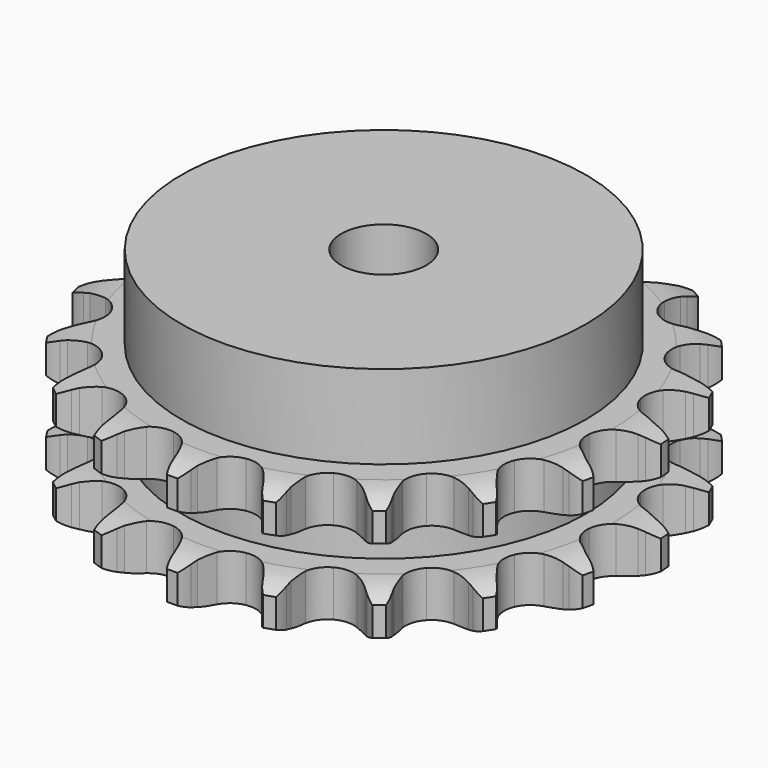
from build123d import *

# Parameters (mm, degrees)
PAD_DEPTH         = 30.3
SKETCH001_R       = 47.5
PAD001_DEPTH      = 50
SKETCH002_R       = 10
POCKET_DEPTH      = 0.001
POCKET_DEPTH_BACK = 50.001


with BuildPart() as part:
    # Sprocket → Pad (new body)
    with BuildSketch(Plane.XY):
        with BuildLine():
            ThreePointArc((-10.503966, 62.946816), (-8.74389, 61.167961), (-7.481259, 59.007416))
            Line((-7.481259, 59.007416), (-6.902532, 57.650953))
            ThreePointArc((-6.902532, 57.650953), (-5.967626, 55.805634), (-4.799073, 54.098669))
            ThreePointArc((-4.799073, 54.098669), (-2.667939, 52.380191), (0, 51.766185))
            ThreePointArc((0, 51.766185), (2.667939, 52.380191), (4.799073, 54.098669))
            ThreePointArc((4.799073, 54.098669), (5.967626, 55.805634), (6.902532, 57.650953))
            Line((6.902532, 57.650953), (7.481259, 59.007416))
            ThreePointArc((7.481259, 59.007416), (8.74389, 61.167961), (10.503966, 62.946816))
            ThreePointArc((10.503966, 62.946816), (11.591083, 60.692849), (12.083773, 58.239392))
            Line((12.083773, 58.239392), (12.1907, 56.768514))
            ThreePointArc((12.1907, 56.768514), (12.475776, 54.719616), (13.026763, 52.72571))
            ThreePointArc((13.026763, 52.72571), (14.484438, 50.408366), (16.808453, 48.96135))
            ThreePointArc((16.808453, 48.96135), (19.531203, 48.67581), (22.104855, 49.609197))
            Line((22.104855, 49.609197), (25.247767, 52.286017))
            ThreePointArc((25.247767, 52.286017), (25.728857, 52.845105), (26.23558, 53.38107))
            ThreePointArc((26.23558, 53.38107), (28.131326, 55.014576), (30.37363, 56.125552))
            ThreePointArc((30.37363, 56.125552), (30.669982, 53.640724), (30.33934, 51.160227))
            Line((30.33934, 51.160227), (29.962881, 49.734325))
            ThreePointArc((29.962881, 49.734325), (29.567234, 47.703879), (29.440947, 45.639103))
            ThreePointArc((29.440947, 45.639103), (30.067201, 42.974012), (31.795449, 40.850793))
            ThreePointArc((31.795449, 40.850793), (34.277958, 39.696649), (37.015233, 39.743799))
            Line((37.015233, 39.743799), (40.857016, 41.25508))
            ThreePointArc((40.857016, 41.25508), (41.493574, 41.627665), (42.14687, 41.970058))
            ThreePointArc((42.14687, 41.970058), (44.470297, 42.899508), (46.95184, 43.222213))
            ThreePointArc((46.95184, 43.222213), (46.425312, 40.775795), (45.307169, 38.537057))
            Line((45.307169, 38.537057), (44.488118, 37.310651))
            ThreePointArc((44.488118, 37.310651), (43.454624, 35.518686), (42.664748, 33.60679))
            ThreePointArc((42.664748, 33.60679), (42.391716, 30.882758), (43.336914, 28.313419))
            ThreePointArc((43.336914, 28.313419), (45.310164, 26.41574), (47.914436, 25.571544))
            Line((47.914436, 25.571544), (52.038772, 25.753515))
            ThreePointArc((52.038772, 25.753515), (52.761819, 25.899222), (53.490891, 26.010938))
            ThreePointArc((53.490891, 26.010938), (55.990221, 26.135612), (58.442089, 25.635077))
            ThreePointArc((58.442089, 25.635077), (57.14974, 23.492176), (55.365264, 21.737799))
            Line((55.365264, 21.737799), (54.192378, 20.843788))
            ThreePointArc((54.192378, 20.843788), (52.633031, 19.484492), (51.265161, 17.932661))
            ThreePointArc((51.265161, 17.932661), (50.122431, 15.444877), (50.182153, 12.707847))
            ThreePointArc((50.182153, 12.707847), (51.432311, 10.272276), (53.621367, 8.628215))
            Line((53.621367, 8.628215), (57.581321, 7.461156))
            ThreePointArc((57.581321, 7.461156), (58.312502, 7.364196), (59.038345, 7.23313))
            ThreePointArc((59.038345, 7.23313), (61.442736, 6.539518), (63.599232, 5.269983))
            ThreePointArc((63.599232, 5.269983), (61.681106, 3.662815), (59.423673, 2.582913))
            Line((59.423673, 2.582913), (58.024052, 2.118178))
            ThreePointArc((58.024052, 2.118178), (56.107833, 1.338851), (54.310199, 0.315249))
            ThreePointArc((54.310199, 0.315249), (52.421603, -1.666696), (51.589377, -4.274818))
            ThreePointArc((51.589377, -4.274818), (51.98097, -6.984348), (53.51759, -9.250114))
            Line((53.51759, -9.250114), (56.884039, -11.639734))
            ThreePointArc((56.884039, -11.639734), (57.54412, -11.968855), (58.188078, -12.328501))
            ThreePointArc((58.188078, -12.328501), (60.236977, -13.765235), (61.86441, -15.666196))
            ThreePointArc((61.86441, -15.666196), (59.528368, -16.563469), (57.042605, -16.851871))
            Line((57.042605, -16.851871), (55.56792, -16.83697))
            ThreePointArc((55.56792, -16.83697), (53.50248, -16.951875), (51.469884, -17.336325))
            ThreePointArc((51.469884, -17.336325), (49.040081, -18.597656), (47.406091, -20.79424))
            ThreePointArc((47.406091, -20.79424), (46.896683, -23.48411), (47.614352, -26.126051))
            Line((47.614352, -26.126051), (50.02249, -29.479278))
            ThreePointArc((50.02249, -29.479278), (50.53994, -30.004894), (51.03223, -30.554146))
            ThreePointArc((51.03223, -30.554146), (52.503607, -32.578311), (53.42562, -34.9047))
            ThreePointArc((53.42562, -34.9047), (50.924807, -34.994844), (48.480086, -34.460494))
            Line((48.480086, -34.460494), (47.090142, -33.967571))
            ThreePointArc((47.090142, -33.967571), (45.099303, -33.405602), (43.052008, -33.109239))
            ThreePointArc((43.052008, -33.109239), (40.344305, -33.513272), (38.08562, -35.060283))
            ThreePointArc((38.08562, -35.060283), (36.730413, -37.439004), (36.55136, -40.170824))
            Line((36.55136, -40.170824), (37.740227, -44.124286))
            ThreePointArc((37.740227, -44.124286), (38.058973, -44.789438), (38.346248, -45.468776))
            ThreePointArc((38.346248, -45.468776), (39.080656, -47.861022), (39.197335, -50.360737))
            ThreePointArc((39.197335, -50.360737), (36.802753, -49.633985), (34.663997, -48.334787))
            Line((34.663997, -48.334787), (33.509416, -47.417258))
            ThreePointArc((33.509416, -47.417258), (31.808917, -46.239314), (29.968779, -45.294253))
            ThreePointArc((29.968779, -45.294253), (27.276597, -44.797205), (24.637981, -45.527001))
            ThreePointArc((24.637981, -45.527001), (22.583833, -47.336802), (21.527462, -49.862466))
            Line((21.527462, -49.862466), (21.368225, -53.987742))
            ThreePointArc((21.368225, -53.987742), (21.453726, -54.720351), (21.504855, -55.456159))
            ThreePointArc((21.504855, -55.456159), (21.42271, -57.957248), (20.721411, -60.359408))
            ThreePointArc((20.721411, -60.359408), (18.69255, -58.894513), (17.091526, -56.971257))
            Line((17.091526, -56.971257), (16.297425, -55.72855))
            ThreePointArc((16.297425, -55.72855), (15.071541, -54.062279), (13.637968, -52.570932))
            ThreePointArc((13.637968, -52.570932), (11.253047, -51.226665), (8.520434, -51.060161))
            ThreePointArc((8.520434, -51.060161), (5.989945, -52.104922), (4.170728, -54.150735))
            Line((4.170728, -54.150735), (2.680645, -58.000789))
            ThreePointArc((2.680645, -58.000789), (2.523635, -58.721465), (2.333077, -59.434006))
            ThreePointArc((2.333077, -59.434006), (1.443281, -61.772907), (0, -63.8172))
            ThreePointArc((0, -63.8172), (-1.443281, -61.772907), (-2.333077, -59.434006))
            Line((-2.333077, -59.434006), (-2.680645, -58.000789))
            ThreePointArc((-2.680645, -58.000789), (-3.29907, -56.026757), (-4.170728, -54.150735))
            ThreePointArc((-4.170728, -54.150735), (-5.989945, -52.104922), (-8.520434, -51.060161))
            ThreePointArc((-8.520434, -51.060161), (-11.253047, -51.226665), (-13.637968, -52.570932))
            Line((-13.637968, -52.570932), (-16.297425, -55.72855))
            ThreePointArc((-16.297425, -55.72855), (-16.679931, -56.359197), (-17.091526, -56.971257))
            ThreePointArc((-17.091526, -56.971257), (-18.69255, -58.894513), (-20.721411, -60.359408))
            ThreePointArc((-20.721411, -60.359408), (-21.42271, -57.957248), (-21.504855, -55.456159))
            Line((-21.504855, -55.456159), (-21.368225, -53.987742))
            ThreePointArc((-21.368225, -53.987742), (-21.312175, -51.919867), (-21.527462, -49.862466))
            ThreePointArc((-21.527462, -49.862466), (-22.583833, -47.336802), (-24.637981, -45.527001))
            ThreePointArc((-24.637981, -45.527001), (-27.276597, -44.797205), (-29.968779, -45.294253))
            Line((-29.968779, -45.294253), (-33.509416, -47.417258))
            ThreePointArc((-33.509416, -47.417258), (-34.075968, -47.889536), (-34.663997, -48.334787))
            ThreePointArc((-34.663997, -48.334787), (-36.802753, -49.633985), (-39.197335, -50.360737))
            ThreePointArc((-39.197335, -50.360737), (-39.080656, -47.861022), (-38.346248, -45.468776))
            Line((-38.346248, -45.468776), (-37.740227, -44.124286))
            ThreePointArc((-37.740227, -44.124286), (-37.015776, -42.186653), (-36.55136, -40.170824))
            ThreePointArc((-36.55136, -40.170824), (-36.730413, -37.439004), (-38.08562, -35.060283))
            ThreePointArc((-38.08562, -35.060283), (-40.344305, -33.513272), (-43.052008, -33.109239))
            Line((-43.052008, -33.109239), (-47.090142, -33.967571))
            ThreePointArc((-47.090142, -33.967571), (-47.779345, -34.2303), (-48.480086, -34.460494))
            ThreePointArc((-48.480086, -34.460494), (-50.924807, -34.994844), (-53.42562, -34.9047))
            ThreePointArc((-53.42562, -34.9047), (-52.503607, -32.578311), (-51.03223, -30.554146))
            Line((-51.03223, -30.554146), (-50.02249, -29.479278))
            ThreePointArc((-50.02249, -29.479278), (-48.708143, -27.881861), (-47.614352, -26.126051))
            ThreePointArc((-47.614352, -26.126051), (-46.896683, -23.48411), (-47.406091, -20.79424))
            ThreePointArc((-47.406091, -20.79424), (-49.040081, -18.597656), (-51.469884, -17.336325))
            Line((-51.469884, -17.336325), (-55.56792, -16.83697))
            ThreePointArc((-55.56792, -16.83697), (-56.305088, -16.86168), (-57.042605, -16.851871))
            ThreePointArc((-57.042605, -16.851871), (-59.528368, -16.563469), (-61.86441, -15.666196))
            ThreePointArc((-61.86441, -15.666196), (-60.236977, -13.765235), (-58.188078, -12.328501))
            Line((-58.188078, -12.328501), (-56.884039, -11.639734))
            ThreePointArc((-56.884039, -11.639734), (-55.122227, -10.555637), (-53.51759, -9.250114))
            ThreePointArc((-53.51759, -9.250114), (-51.98097, -6.984348), (-51.589377, -4.274818))
            ThreePointArc((-51.589377, -4.274818), (-52.421603, -1.666696), (-54.310199, 0.315249))
            Line((-54.310199, 0.315249), (-58.024052, 2.118178))
            ThreePointArc((-58.024052, 2.118178), (-58.729302, 2.334164), (-59.423673, 2.582913))
            ThreePointArc((-59.423673, 2.582913), (-61.681106, 3.662815), (-63.599232, 5.269983))
            ThreePointArc((-63.599232, 5.269983), (-61.442736, 6.539518), (-59.038345, 7.23313))
            Line((-59.038345, 7.23313), (-57.581321, 7.461156))
            ThreePointArc((-57.581321, 7.461156), (-55.562963, 7.914455), (-53.621367, 8.628215))
            ThreePointArc((-53.621367, 8.628215), (-51.432311, 10.272276), (-50.182153, 12.707847))
            ThreePointArc((-50.182153, 12.707847), (-50.122431, 15.444877), (-51.265161, 17.932661))
            Line((-51.265161, 17.932661), (-54.192378, 20.843788))
            ThreePointArc((-54.192378, 20.843788), (-54.789284, 21.277066), (-55.365264, 21.737799))
            ThreePointArc((-55.365264, 21.737799), (-57.14974, 23.492176), (-58.442089, 25.635077))
            ThreePointArc((-58.442089, 25.635077), (-55.990221, 26.135612), (-53.490891, 26.010938))
            Line((-53.490891, 26.010938), (-52.038772, 25.753515))
            ThreePointArc((-52.038772, 25.753515), (-49.982589, 25.526892), (-47.914436, 25.571544))
            ThreePointArc((-47.914436, 25.571544), (-45.310164, 26.41574), (-43.336914, 28.313419))
            ThreePointArc((-43.336914, 28.313419), (-42.391716, 30.882758), (-42.664748, 33.60679))
            Line((-42.664748, 33.60679), (-44.488118, 37.310651))
            ThreePointArc((-44.488118, 37.310651), (-44.911998, 37.914268), (-45.307169, 38.537057))
            ThreePointArc((-45.307169, 38.537057), (-46.425312, 40.775795), (-46.95184, 43.222213))
            ThreePointArc((-46.95184, 43.222213), (-44.470297, 42.899508), (-42.14687, 41.970058))
            Line((-42.14687, 41.970058), (-40.857016, 41.25508))
            ThreePointArc((-40.857016, 41.25508), (-38.985826, 40.373095), (-37.015233, 39.743799))
            ThreePointArc((-37.015233, 39.743799), (-34.277958, 39.696649), (-31.795449, 40.850793))
            ThreePointArc((-31.795449, 40.850793), (-30.067201, 42.974012), (-29.440947, 45.639103))
            Line((-29.440947, 45.639103), (-29.962881, 49.734325))
            ThreePointArc((-29.962881, 49.734325), (-30.167799, 50.44287), (-30.33934, 51.160227))
            ThreePointArc((-30.33934, 51.160227), (-30.669982, 53.640724), (-30.37363, 56.125552))
            ThreePointArc((-30.37363, 56.125552), (-28.131326, 55.014576), (-26.23558, 53.38107))
            Line((-26.23558, 53.38107), (-25.247767, 52.286017))
            ThreePointArc((-25.247767, 52.286017), (-23.764344, 50.844246), (-22.104855, 49.609197))
            ThreePointArc((-22.104855, 49.609197), (-19.531203, 48.67581), (-16.808453, 48.96135))
            ThreePointArc((-16.808453, 48.96135), (-14.484438, 50.408366), (-13.026763, 52.72571))
            Line((-13.026763, 52.72571), (-12.1907, 56.768514))
            ThreePointArc((-12.1907, 56.768514), (-12.154452, 57.505204), (-12.083773, 58.239392))
            ThreePointArc((-12.083773, 58.239392), (-11.591083, 60.692849), (-10.503966, 62.946816))
        make_face()
    extrude(amount=PAD_DEPTH)

    # Sketch → Groove (revolve, cut)
    with BuildSketch(Plane.XZ):
        with BuildLine():
            ThreePointArc((53.614719, 0), (57.973618, 0.506758), (62.1, 2))
            Line((62.1, 2), (62.1, 8.8))
            ThreePointArc((62.1, 8.8), (57.973618, 10.293242), (53.614719, 10.8))
            Line((47.5, 10.8), (53.614719, 10.8))
            Line((47.5, 19.5), (47.5, 10.8))
            Line((53.614719, 19.5), (47.5, 19.5))
            ThreePointArc((53.614719, 19.5), (57.973618, 20.006758), (62.1, 21.5))
            Line((62.1, 21.5), (62.1, 28.3))
            ThreePointArc((62.1, 28.3), (57.973618, 29.793242), (53.614719, 30.3))
            Line((53.614719, 30.3), (72.1, 30.3))
            Line((72.1, 30.3), (72.1, 0))
            Line((53.614719, 0), (72.1, 0))
        make_face()
    revolve(axis=Axis((0, 0, 0), (0, 0, 1)), mode=Mode.SUBTRACT)

    # Sketch001 → Pad001 (join)
    with BuildSketch(Plane.XY):
        Circle(SKETCH001_R)
    extrude(amount=PAD001_DEPTH)

    # Sketch002 → Pocket (cut, two sides)
    with BuildSketch(Plane.XY) as pocket_sk:
        Circle(SKETCH002_R)
    extrude(amount=-POCKET_DEPTH, mode=Mode.SUBTRACT)
    extrude(pocket_sk.sketch, amount=POCKET_DEPTH_BACK, mode=Mode.SUBTRACT)


solid = part.part
